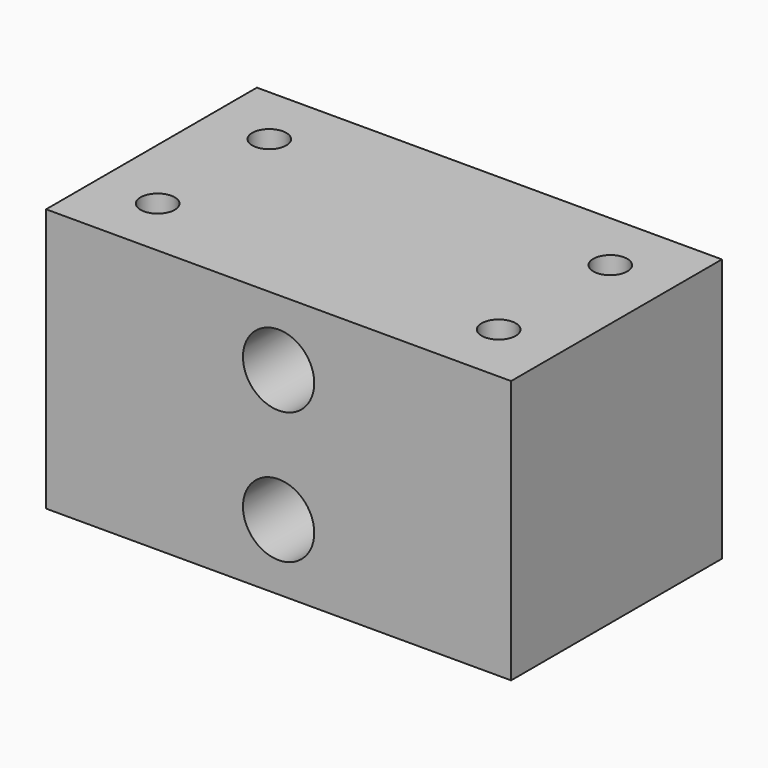
from build123d import *

# Parameters (mm, degrees)
F0_W     = 150
F0_H     = 85
F1_DEPTH = 85
F2_R     = 6.25
F3_DEPTH = 85.001
F2_R_2   = 11.5
F4_DEPTH = 25
F6_D     = 11


with BuildPart() as f1:
    # F0 (on Top) → F1 (new body)
    with BuildSketch(Plane.XY):
        with Locations((75, 42.5)):
            Rectangle(F0_W, F0_H)
    extrude(amount=F1_DEPTH)

    # F2 (on face) → F3 (cut, through all)
    with BuildSketch(Plane.XZ):
        with Locations((75, 63.75)):
            Circle(F2_R)
        with Locations((75, 21.25)):
            Circle(F2_R)
    extrude(amount=-F3_DEPTH, mode=Mode.SUBTRACT)

    # F2 (on face) → F4 (cut)
    with BuildSketch(Plane.XZ):
        with Locations((75, 63.75)):
            Circle(F2_R_2)
        with Locations((75, 63.75)):
            Circle(F2_R, mode=Mode.SUBTRACT)
        with Locations((75, 21.25)):
            Circle(F2_R_2)
        with Locations((75, 21.25)):
            Circle(F2_R, mode=Mode.SUBTRACT)
    extrude(amount=-F4_DEPTH, mode=Mode.SUBTRACT)

    # F6 (through all)
    with Locations(Plane.XY.offset(85)):
        with Locations((20, 65), (20, 20), (130, 20), (130, 65)):
            Hole(F6_D / 2)


solid = f1.part
